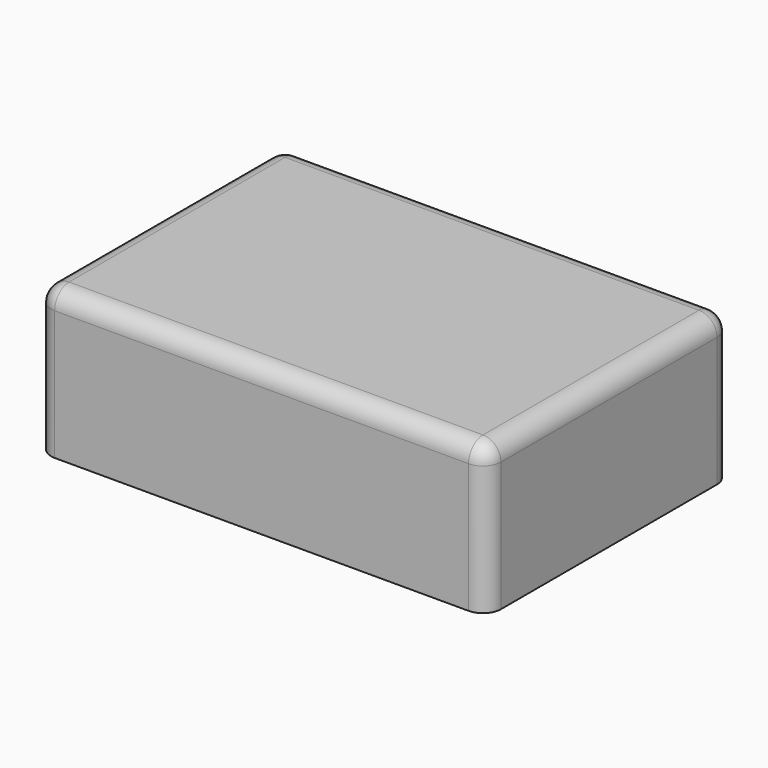
from build123d import *

# Parameters (mm, degrees)
F0_W     = 250
F0_H     = 170
F0_W_2   = 235
F0_H_2   = 150
F1_DEPTH = 3
F2_W     = 250
F2_H     = 170
F2_W_2   = 225
F2_H_2   = 135
F3_DEPTH = 82
F4_R     = 10


with BuildPart() as f1:
    # F0 (on Top) → F1 (new body)
    with BuildSketch(Plane.XY):
        Rectangle(F0_W, F0_H)
        Rectangle(F0_W_2, F0_H_2, mode=Mode.SUBTRACT)
        Rectangle(F0_W_2, F0_H_2)
    extrude(amount=F1_DEPTH)

    # F2 (on face) → F3 (join)
    with BuildSketch(Plane.XY.offset(3)):
        Rectangle(F2_W, F2_H)
        Rectangle(F2_W_2, F2_H_2, mode=Mode.SUBTRACT)
    extrude(amount=-F3_DEPTH)

    # F4
    f4_edges = [f1.edges().sort_by_distance(p)[0] for p in [
        (-125, 0, 3),
        (0, -85, 3),
        (125, 0, 3),
        (0, 85, 3),
        (125, -85, -38),
        (125, 85, -38),
        (-125, -85, -38),
        (-125, 85, -38),
    ]]
    fillet(f4_edges, radius=F4_R)


solid = f1.part
